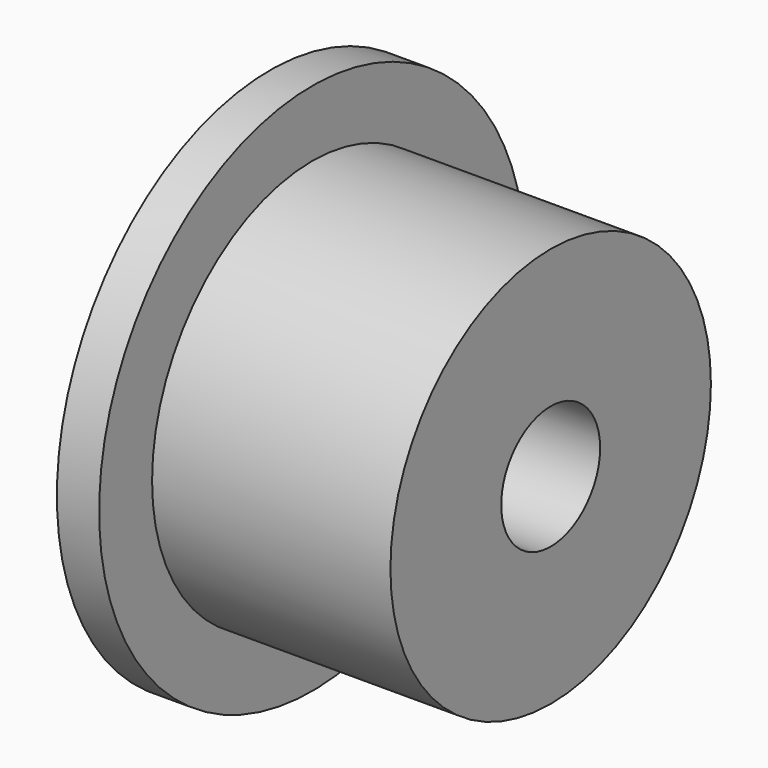
from build123d import *

# Parameters (mm, degrees)
F0_W = 60.783006
F0_H = 35.3126


with BuildPart() as f1:
    # F0 (on Top) → F1 (revolve)
    with BuildSketch(Plane.XY):
        with Locations((-30.391503, 17.6563)):
            Rectangle(F0_W, F0_H)
        Polygon((-71.560346, 0), (-62.423036, 0), (-60.783006, 0), (-60.783006, 35.3126), (-60.783006, 52.181475), (-71.560346, 52.181475), align=None)
    revolve(axis=Axis((-0.921935, -15.762597, 0), (1, 0, 0)))


solid = f1.part
